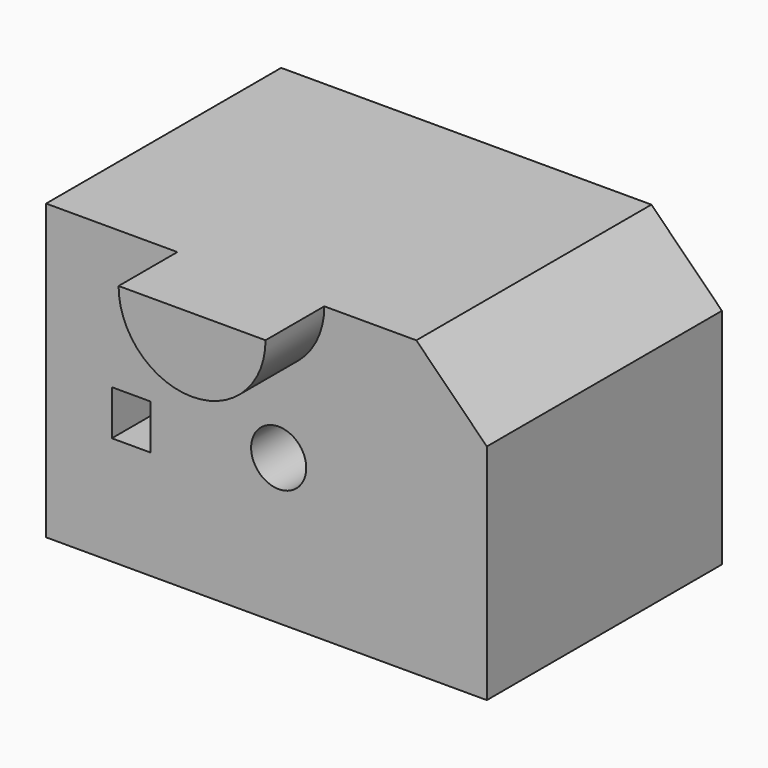
from build123d import *

# Parameters (mm, degrees)
F0_W     = 150
F0_H     = 100
F1_DEPTH = 100
F4_DEPTH = 25
F5_SIZE  = 24
F6_R     = 9.380877
F7_DEPTH = 24.5
F8_W     = 13.083855
F8_H     = 15.305644
F9_DEPTH = 25.7


with BuildPart() as f1:
    # F0 (on Front) → F1 (new body)
    with BuildSketch(Plane.XZ):
        with Locations((15.379184, 8.105334)):
            Rectangle(F0_W, F0_H)
    extrude(amount=F1_DEPTH)

    # F3 (on face) → F4 (join)
    with BuildSketch(Plane.XZ.offset(100)):
        with BuildLine():
            ThreePointArc((-14.94097, 58.105334), (10.023203, 33.033909), (35.058928, 58.033884))
            ThreePointArc((35.058928, 58.033884), (35.058903, 58.069609), (35.058826, 58.105334))
            Line((35.058826, 58.105334), (-14.94097, 58.105334))
        make_face()
    extrude(amount=F4_DEPTH)

    # F5
    f5_edges = [f1.edges().sort_by_distance(p)[0] for p in [
        (90.379184, -50, 58.105334),
    ]]
    chamfer(f5_edges, length=F5_SIZE)

    # F6 (on face) → F7 (cut)
    with BuildSketch(Plane.XZ.offset(100)):
        with Locations((19.53912, 7.652821)):
            Circle(F6_R)
    extrude(amount=-F7_DEPTH, mode=Mode.SUBTRACT)

    # F8 (on face) → F9 (cut)
    with BuildSketch(Plane.XZ.offset(100)):
        with Locations((-30.697948, 2.715517)):
            Rectangle(F8_W, F8_H)
    extrude(amount=-F9_DEPTH, mode=Mode.SUBTRACT)


solid = f1.part
